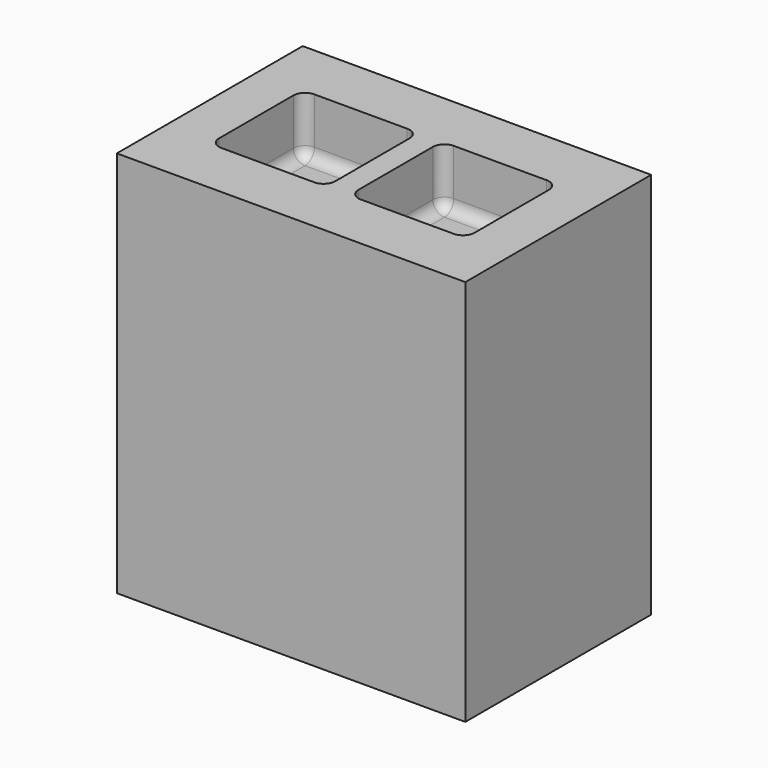
from build123d import *

# Parameters (mm, degrees)
F0_W     = 2286
F0_H     = 1524
F1_DEPTH = 2540
F2_W     = 762
F2_H     = 762
F3_DEPTH = 381
F4_R     = 76.2
F5_W     = 762
F5_H     = 762
F6_DEPTH = 381
F7_R     = 76.2


with BuildPart() as f1:
    # F0 (on Top) → F1 (new body)
    with BuildSketch(Plane.XY):
        Rectangle(F0_W, F0_H)
    extrude(amount=F1_DEPTH)

    # F2 (on face) → F3 (cut)
    with BuildSketch(Plane.XY.offset(2540)):
        with Locations((-457.2, 0)):
            Rectangle(F2_W, F2_H)
    extrude(amount=-F3_DEPTH, mode=Mode.SUBTRACT)

    # F4
    f4_edges = [f1.edges().sort_by_distance(p)[0] for p in [
        (-838.2, 381, 2349.5),
        (-838.2, 0, 2159),
        (-457.2, 381, 2159),
        (-76.2, 0, 2159),
        (-76.2, 381, 2349.5),
        (-457.2, -381, 2159),
        (-76.2, -381, 2349.5),
        (-838.2, -381, 2349.5),
    ]]
    fillet(f4_edges, radius=F4_R)

    # F5 (on face) → F6 (cut)
    with BuildSketch(Plane.XY.offset(2540)):
        with Locations((457.2, 0)):
            Rectangle(F5_W, F5_H)
    extrude(amount=-F6_DEPTH, mode=Mode.SUBTRACT)

    # F7
    f7_edges = [f1.edges().sort_by_distance(p)[0] for p in [
        (76.2, 381, 2349.5),
        (457.2, 381, 2159),
        (76.2, 0, 2159),
        (838.2, 0, 2159),
        (838.2, 381, 2349.5),
        (838.2, -381, 2349.5),
        (457.2, -381, 2159),
        (76.2, -381, 2349.5),
    ]]
    fillet(f7_edges, radius=F7_R)


solid = f1.part
